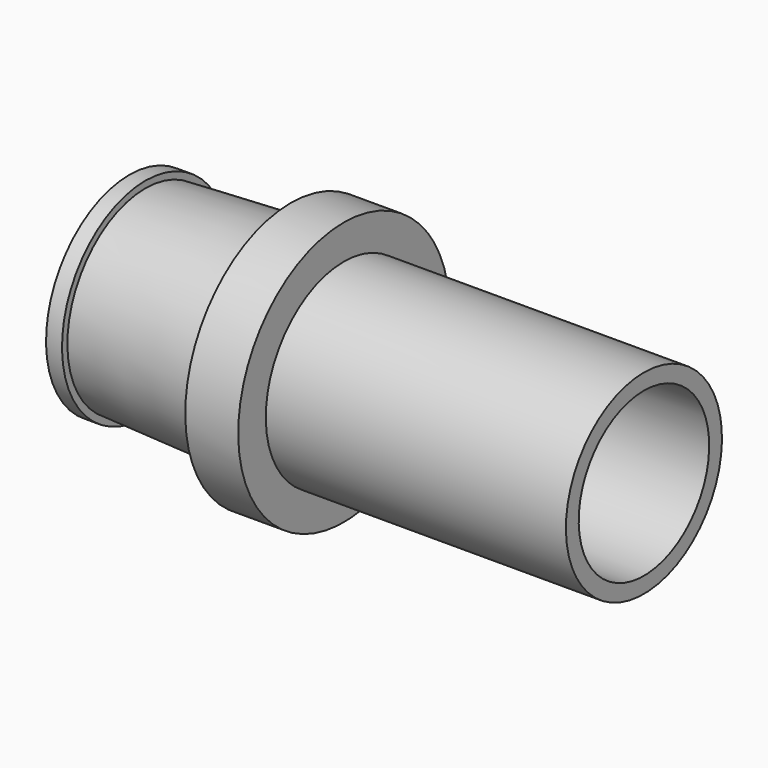
from build123d import *


with BuildPart() as f1:
    # F0 (on Front) → F1 (revolve)
    with BuildSketch(Plane.XZ):
        Polygon((1.778, 0), (0, 0), (0, -0.931333), (-4.882445, -1.157111), (-4.882445, -0.931333), (-5.418667, -0.931333), (-5.418667, -1.467556), (-2.003778, -1.467556), (-2.003778, -2.032), (0, -2.032), (0, -4.430889), (1.382889, -4.430889), (1.382889, -2.032), (4.938889, -2.032), (4.938889, -1.693333), (11.853333, -1.693333), (11.853333, -1.157111), (1.778, -1.157111), align=None)
    revolve(axis=Axis((0.691444, 0, -4.430889), (-1, 0, 0)))


solid = f1.part
